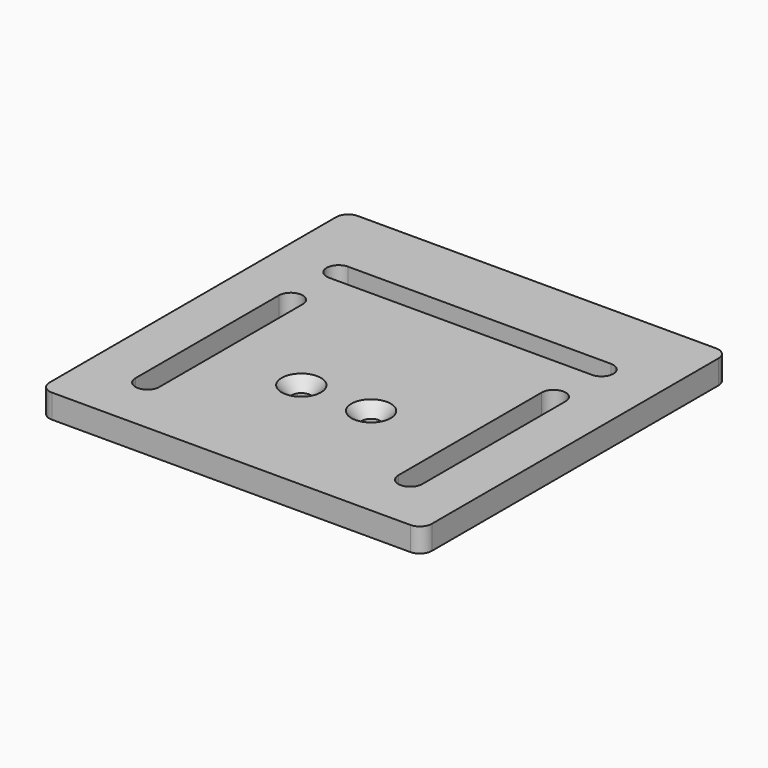
from build123d import *

# Parameters (mm, degrees)
F0_W           = 101.6
F0_H           = 101.6
F1_DEPTH       = 6.35
F3_D           = 4.9784
F3_CSINK_D     = 10.4394
F3_CSINK_ANGLE = 82
F4_R           = 3.175


with BuildPart() as f1:
    # F0 (on Top) → F1 (new body)
    with BuildSketch(Plane.XY):
        Rectangle(F0_W, F0_H)
        with BuildLine():
            Line((-38.1, -34.925), (-38.1, 12.7))
            ThreePointArc((-38.1, 12.7), (-34.925, 15.875), (-31.75, 12.7))
            Line((-31.75, 12.7), (-31.75, -34.925))
            ThreePointArc((-31.75, -34.925), (-34.925, -38.1), (-38.1, -34.925))
        make_face(mode=Mode.SUBTRACT)
        with BuildLine():
            Line((31.75, -34.925), (31.75, 12.7))
            ThreePointArc((31.75, 12.7), (34.925, 15.875), (38.1, 12.7))
            Line((38.1, 12.7), (38.1, -34.925))
            ThreePointArc((38.1, -34.925), (34.925, -38.1), (31.75, -34.925))
        make_face(mode=Mode.SUBTRACT)
        with BuildLine():
            Line((34.925, 25.4), (-34.925, 25.4))
            ThreePointArc((-34.925, 25.4), (-38.1, 28.575), (-34.925, 31.75))
            Line((-34.925, 31.75), (34.925, 31.75))
            ThreePointArc((34.925, 31.75), (38.1, 28.575), (34.925, 25.4))
        make_face(mode=Mode.SUBTRACT)
    extrude(amount=F1_DEPTH)

    # F3 (through all)
    with Locations(Plane.XY.offset(6.35)):
        with Locations((-9.271, -15.875), (9.271, -15.875)):
            CounterSinkHole(F3_D / 2, F3_CSINK_D / 2, counter_sink_angle=F3_CSINK_ANGLE)

    # F4
    f4_edges = [f1.edges().sort_by_distance(p)[0] for p in [
        (-50.8, -50.8, 3.175),
        (50.8, -50.8, 3.175),
        (-50.8, 50.8, 3.175),
        (50.8, 50.8, 3.175),
    ]]
    fillet(f4_edges, radius=F4_R)


solid = f1.part
